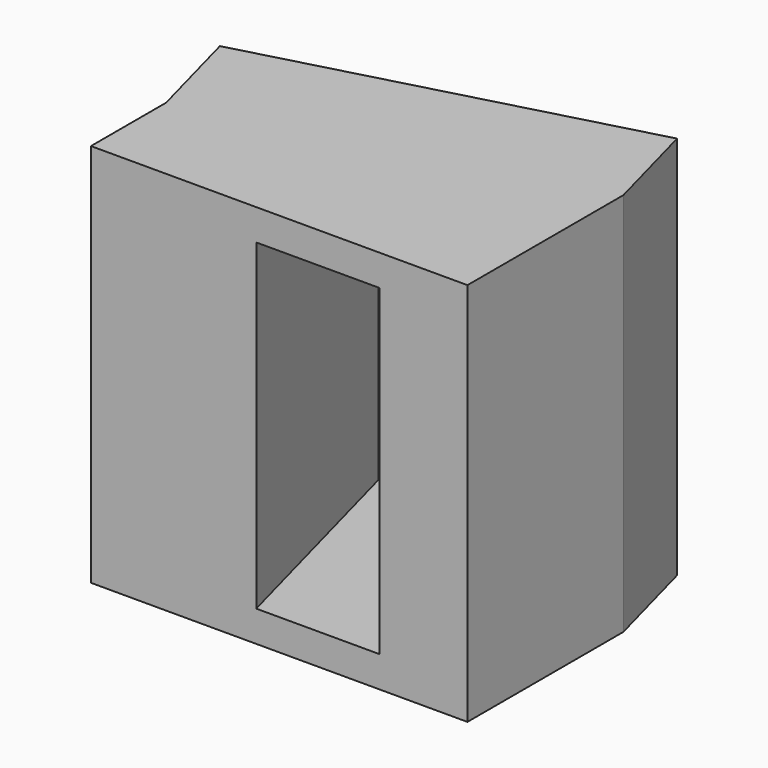
from build123d import *

# Parameters (mm, degrees)
F1_DEPTH = 150.33752
F2_W     = 46.5666582
F2_H     = 126.05004
F3_DEPTH = 106.54452264


with BuildPart() as f1:
    # F0 (on Top) → F1 (new body)
    with BuildSketch(Plane.XY):
        Polygon((10.568993968, -39.4440224736), (0, 0), (-147.2070959265, -39.4440224736), (-136.6381019584, -78.8880449472), (-136.6381019584, -115.6440224736), (10.568993968, -115.6440224736), align=None)
    extrude(amount=F1_DEPTH)

    # F2 (on face) → F3 (cut, up to face)
    with BuildSketch(Plane(origin=(0, 0, 0), x_dir=(-0.9659258263, -0.2588190451, 0), z_dir=(-0.2588190451, 0.9659258263, 0))):
        with Locations((76.2, 75.16876)):
            Rectangle(F2_W, F2_H)
    extrude(amount=-F3_DEPTH, mode=Mode.SUBTRACT)


solid = f1.part
